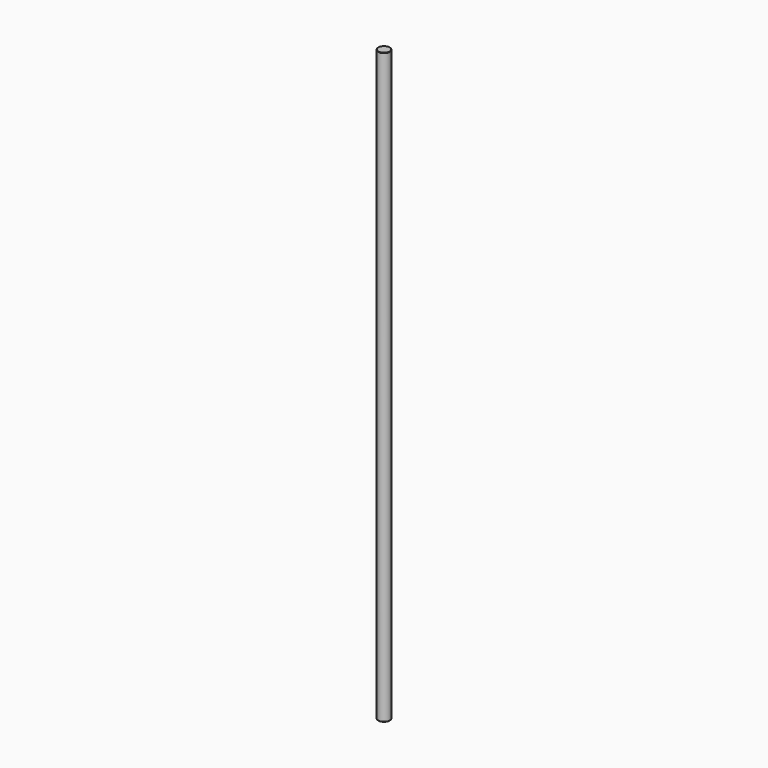
from build123d import *

# Parameters (mm, degrees)
SKETCH_R     = 5
PAD_DEPTH    = 500
CHAMFER_SIZE = 0.3


with BuildPart() as part:
    # Sketch → Pad (new body)
    with BuildSketch(Plane.XY):
        Circle(SKETCH_R)
    extrude(amount=PAD_DEPTH)

    # Chamfer
    chamfer_edges = [part.edges().sort_by_distance(p)[0] for p in [
        (-5, 0, 500),
        (-5, 0, 0),
    ]]
    chamfer(chamfer_edges, length=CHAMFER_SIZE)


solid = part.part
